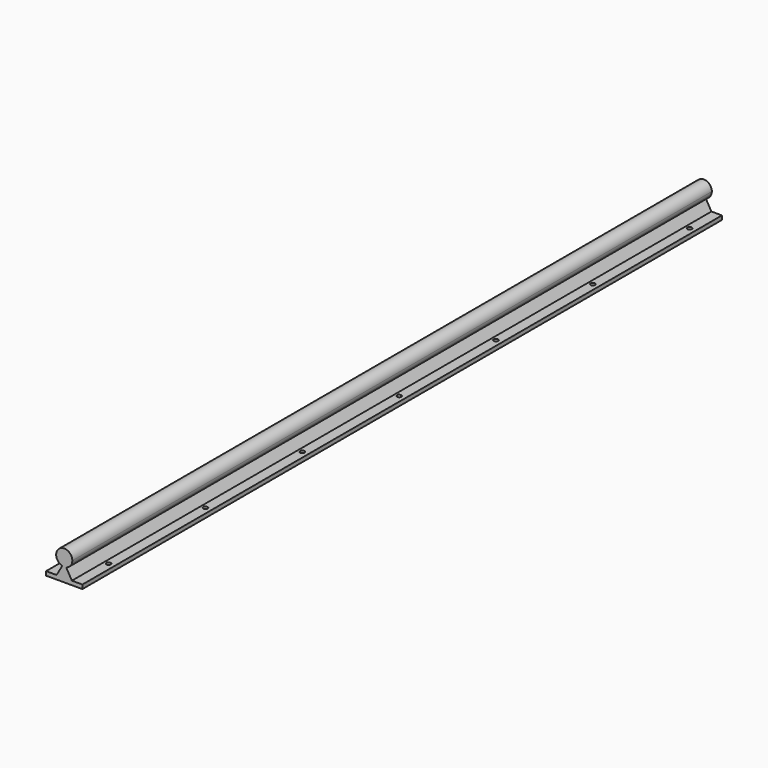
from build123d import *

# Parameters (mm, degrees)
F1_DEPTH = 990.6
F2_R     = 2.75
F3_DEPTH = 25.4


with BuildPart() as f1:
    # F0 (on Front) → F1 (new body)
    with BuildSketch(Plane.XZ):
        with BuildLine():
            ThreePointArc((2.4026723012, -9.7070678278), (7.8748562848, -6.1633301464), (10, 0))
            ThreePointArc((10, 0), (-6.1633301464, 7.8748562848), (-2.4026723012, -9.7070678278))
            Line((-2.4026723012, -9.7070678278), (-2.0930662503, -9.1708144173))
            Line((-2.0930662503, -9.1708144173), (2.0930662503, -9.1708144173))
            Line((2.0930662503, -9.1708144173), (2.4026723012, -9.7070678278))
        make_face()
        with BuildLine():
            Line((-2.0930662503, -9.1708144173), (-2.4026723012, -9.7070678278))
            ThreePointArc((-2.4026723012, -9.7070678278), (0, -10), (2.4026723012, -9.7070678278))
            Line((2.4026723012, -9.7070678278), (2.0930662503, -9.1708144173))
            Line((2.0930662503, -9.1708144173), (-2.0930662503, -9.1708144173))
        make_face()
        with BuildLine():
            ThreePointArc((2.4026723012, -9.7070678278), (0, -10), (-2.4026723012, -9.7070678278))
            Line((-2.4026723012, -9.7070678278), (-9.5, -22))
            Line((-9.5, -22), (-22.5, -22))
            Line((-22.5, -22), (-22.5, -27))
            Line((-22.5, -27), (22.5, -27))
            Line((22.5, -27), (22.5, -22))
            Line((22.5, -22), (9.5, -22))
            Line((9.5, -22), (2.4026723012, -9.7070678278))
        make_face()
    extrude(amount=-F1_DEPTH)

    # F2 (on face) → F3 (cut)
    with BuildSketch(Plane.XY.offset(-22)):
        with Locations((15, 50)):
            Circle(F2_R)
        with Locations((-15, 50)):
            Circle(F2_R)
        with Locations((15, 200)):
            Circle(F2_R)
        with Locations((-15, 200)):
            Circle(F2_R)
        with Locations((15, 350)):
            Circle(F2_R)
        with Locations((-15, 350)):
            Circle(F2_R)
        with Locations((15, 500)):
            Circle(F2_R)
        with Locations((-15, 500)):
            Circle(F2_R)
        with Locations((15, 650)):
            Circle(F2_R)
        with Locations((-15, 650)):
            Circle(F2_R)
        with Locations((15, 800)):
            Circle(F2_R)
        with Locations((-15, 800)):
            Circle(F2_R)
        with Locations((15, 950)):
            Circle(F2_R)
        with Locations((-15, 950)):
            Circle(F2_R)
        with Locations((88.152, 50)):
            Circle(F2_R)
        with Locations((58.152, 50)):
            Circle(F2_R)
        with Locations((88.152, 200)):
            Circle(F2_R)
        with Locations((58.152, 200)):
            Circle(F2_R)
        with Locations((88.152, 350)):
            Circle(F2_R)
        with Locations((58.152, 350)):
            Circle(F2_R)
        with Locations((88.152, 500)):
            Circle(F2_R)
        with Locations((58.152, 500)):
            Circle(F2_R)
        with Locations((88.152, 650)):
            Circle(F2_R)
        with Locations((58.152, 650)):
            Circle(F2_R)
        with Locations((88.152, 800)):
            Circle(F2_R)
        with Locations((58.152, 800)):
            Circle(F2_R)
        with Locations((88.152, 950)):
            Circle(F2_R)
        with Locations((58.152, 950)):
            Circle(F2_R)
        with Locations((161.304, 50)):
            Circle(F2_R)
        with Locations((131.304, 50)):
            Circle(F2_R)
        with Locations((161.304, 200)):
            Circle(F2_R)
        with Locations((131.304, 200)):
            Circle(F2_R)
        with Locations((161.304, 350)):
            Circle(F2_R)
        with Locations((131.304, 350)):
            Circle(F2_R)
        with Locations((161.304, 500)):
            Circle(F2_R)
        with Locations((131.304, 500)):
            Circle(F2_R)
        with Locations((161.304, 650)):
            Circle(F2_R)
        with Locations((131.304, 650)):
            Circle(F2_R)
        with Locations((161.304, 800)):
            Circle(F2_R)
        with Locations((131.304, 800)):
            Circle(F2_R)
        with Locations((161.304, 950)):
            Circle(F2_R)
        with Locations((131.304, 950)):
            Circle(F2_R)
    extrude(amount=-F3_DEPTH, mode=Mode.SUBTRACT)


solid = f1.part
